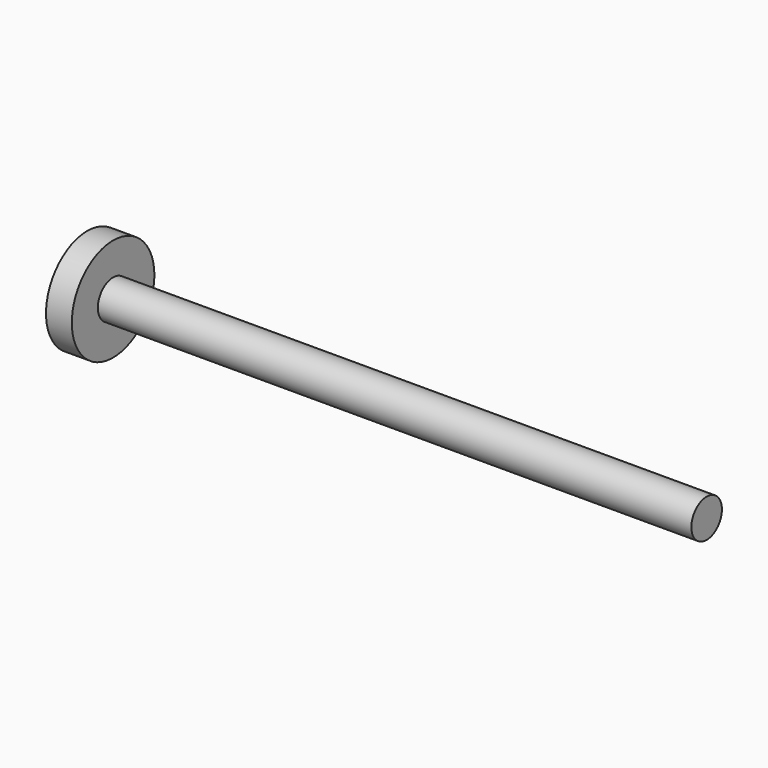
from build123d import *

# Parameters (mm, degrees)
F0_R     = 4.699
F1_DEPTH = 152.4
F2_R     = 12.7
F3_DEPTH = 6.35
F4_R     = 2.38125
F5_DEPTH = 12.701


with BuildPart() as f1:
    # F0 (on Right) → F1 (new body)
    with BuildSketch(Plane.YZ):
        Circle(F0_R)
    extrude(amount=F1_DEPTH)

    # F2 (on Right) → F3 (join)
    with BuildSketch(Plane.YZ):
        Circle(F2_R)
    extrude(amount=F3_DEPTH)

    # F4 (on Front) → F5 (cut, through all)
    with BuildSketch(Plane.XZ):
        with Locations((114.3, 0)):
            Circle(F4_R)
    extrude(amount=-F5_DEPTH, mode=Mode.SUBTRACT)


solid = f1.part
